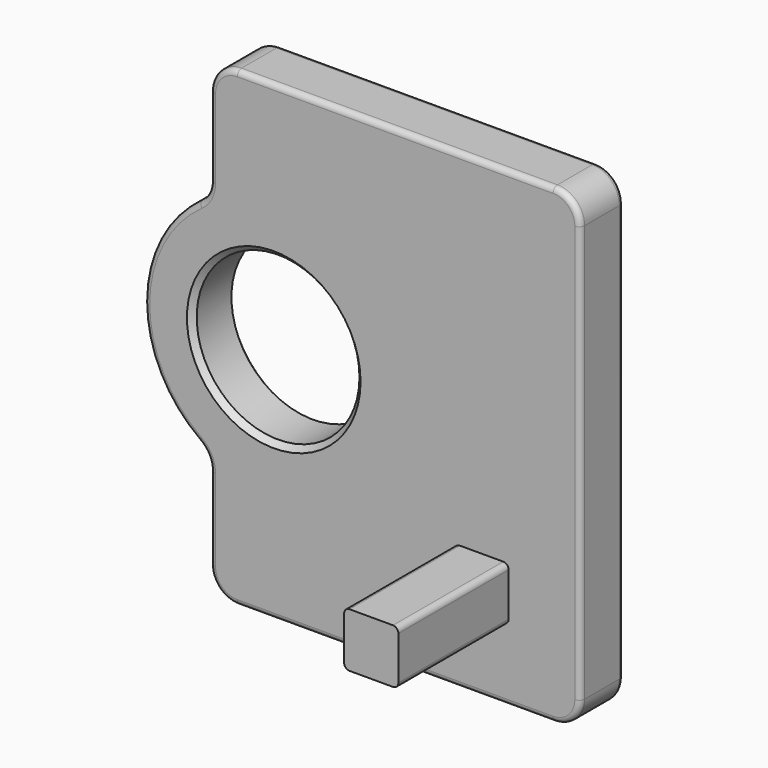
from build123d import *

# Parameters (mm, degrees)
F0_R     = 15
F1_DEPTH = 10
F2_R     = 5
F3_SIZE  = 1
F4_R     = 1
F5_W     = 10
F5_H     = 10
F6_DEPTH = 25.4
F7_R     = 1


with BuildPart() as f1:
    # F0 (on Front) → F1 (new body)
    with BuildSketch(Plane.XZ):
        with BuildLine():
            Line((32.266531, 50.35542), (-35.933132, 50.35542))
            Line((-35.933132, 50.35542), (-35.933132, 28.043626))
            ThreePointArc((-35.933132, 28.043626), (-48.068501, 7.269355), (-35.933132, -13.504916))
            Line((-35.933132, -13.504916), (-35.933132, -36.456365))
            Line((-35.933132, -36.456365), (32.266531, -36.456365))
            Line((32.266531, -36.456365), (32.266531, 50.35542))
        make_face()
        with Locations((-24.219309, 7.269355)):
            Circle(F0_R, mode=Mode.SUBTRACT)
    extrude(amount=-F1_DEPTH)

    # F2
    f2_edges = [f1.edges().sort_by_distance(p)[0] for p in [
        (-35.933132, 5, 28.043626),
        (-35.933132, 5, -13.504916),
        (-35.933132, 5, 50.35542),
        (-35.933132, 5, -36.456365),
        (32.266531, 5, 50.35542),
        (32.266531, 5, -36.456365),
    ]]
    fillet(f2_edges, radius=F2_R)

    # F3
    f3_edges = [f1.edges().sort_by_distance(p)[0] for p in [
        (-39.219309, 10, 7.269355),
        (-39.219309, 0, 7.269355),
    ]]
    chamfer(f3_edges, length=F3_SIZE)

    # F4
    f4_edges = [f1.edges().sort_by_distance(p)[0] for p in [
        (-1.8333, 10, 50.35542),
        (32.266531, 0, 6.949527),
    ]]
    fillet(f4_edges, radius=F4_R)

    # F5 (on Front) → F6 (join)
    with BuildSketch(Plane.XZ):
        with Locations((14.072881, -18.364601)):
            Rectangle(F5_W, F5_H)
    extrude(amount=F6_DEPTH)

    # F7
    f7_edges = [f1.edges().sort_by_distance(p)[0] for p in [
        (19.072881, -12.7, -23.364601),
        (9.072881, -12.7, -23.364601),
        (9.072881, -12.7, -13.364601),
        (19.072881, -12.7, -13.364601),
    ]]
    fillet(f7_edges, radius=F7_R)


solid = f1.part
